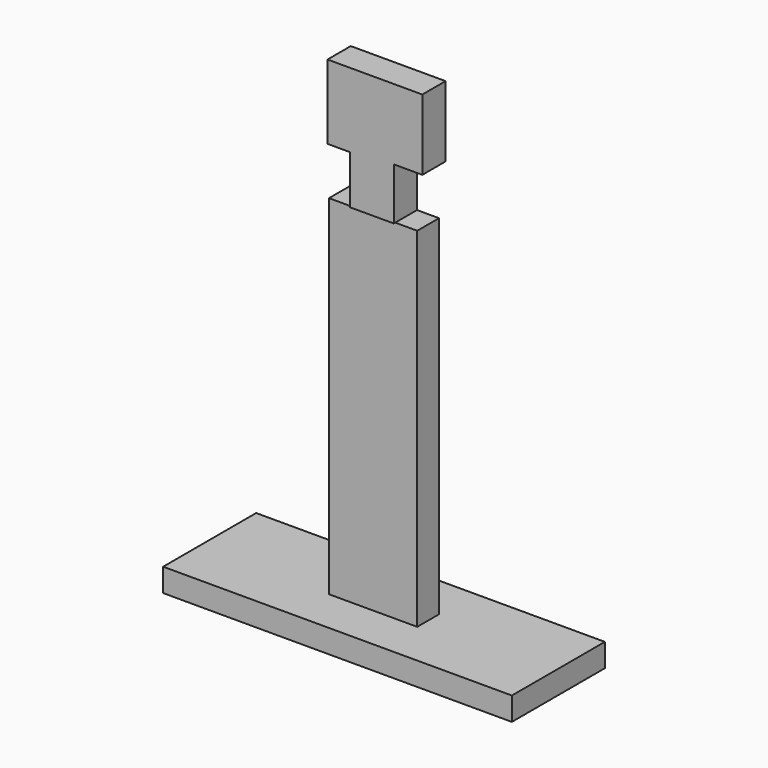
from build123d import *

# Parameters (mm, degrees)
F0_W     = 76.2
F0_H     = 25.4
F1_DEPTH = 5.08
F2_W     = 19.28169
F2_H     = 5.94669
F3_DEPTH = 76.2
F5_DEPTH = 6.35


with BuildPart() as f1:
    # F0 (on Top) → F1 (new body)
    with BuildSketch(Plane.XY):
        Rectangle(F0_W, F0_H)
    extrude(amount=F1_DEPTH)

    # F2 (on face) → F3 (join)
    with BuildSketch(Plane.XY.offset(5.08)):
        Rectangle(F2_W, F2_H)
    extrude(amount=F3_DEPTH)

    # F4 (on face) → F5 (join)
    with BuildSketch(Plane(origin=(0, 2.973345, 0), x_dir=(-1, 0, 0), z_dir=(0, 1, 0))):
        Polygon((-4.838744, 81.28), (4.681972, 81.28), (4.681972, 91.884151), (9.640845, 91.884151), (9.640845, 108.11457), (-11.076658, 108.11457), (-11.076658, 92.657104), (-4.838744, 92.657104), align=None)
    extrude(amount=-F5_DEPTH)


solid = f1.part
